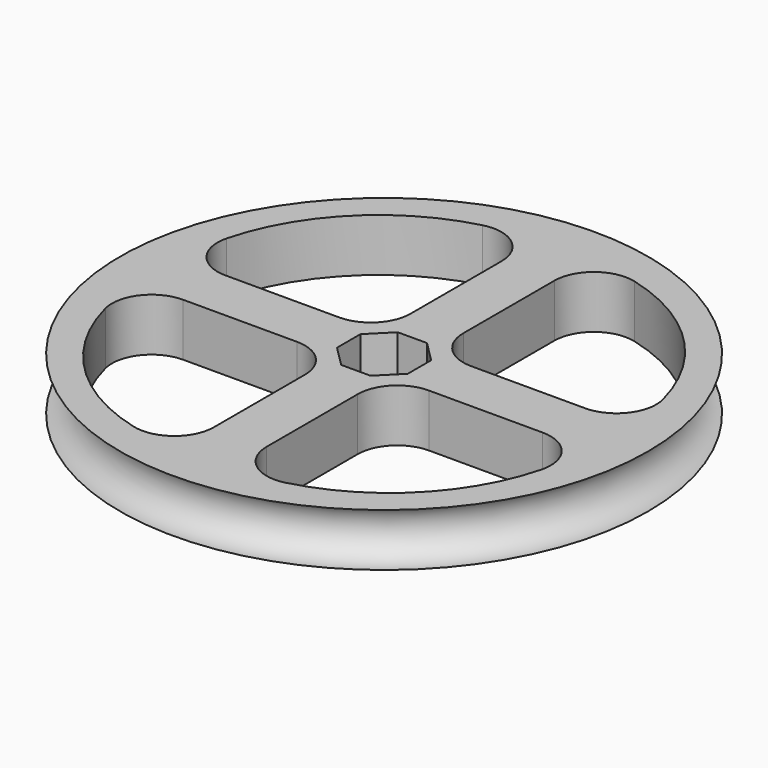
from build123d import *

# Parameters (mm, degrees)
TORUS_R         = 2
CYLINDER_R      = 20
CYLINDER_DEPTH  = 4
POCKET_DEPTH    = 4.001
FILLET_R        = 3
FILLET001_R     = 3
FILLET002_R     = 3
POCKET001_DEPTH = 5


with BuildPart() as torus:
    # Torus → Torus (revolve)
    with BuildSketch(Plane(origin=(0, 0, 2), x_dir=(1, 0, 0), z_dir=(0, -1, 0))):
        with Locations((20, 0)):
            Circle(TORUS_R)
    revolve(axis=Axis((0, 0, 2), (0, 0, 1)))


with BuildPart() as body001:
    # Cylinder → Cylinder (new body)
    with BuildSketch(Plane.XY):
        Circle(CYLINDER_R)
    extrude(amount=CYLINDER_DEPTH)

    # Sketch001 (on DatumPlane) → Pocket (cut, through all)
    with BuildSketch(Plane(origin=(0, 0, 0), x_dir=(1, 0, 0), z_dir=(0, 0, -1))):
        with BuildLine():
            Line((2, 17), (2, 2))
            Line((2, 2), (17, 2))
            ThreePointArc((17, 2), (12.606602, 12.606602), (2, 17))
        make_face()
        with BuildLine():
            Line((-2, 17), (-2, 2))
            Line((-17, 2), (-2, 2))
            ThreePointArc((-2, 17), (-12.606602, 12.606602), (-17, 2))
        make_face()
        with BuildLine():
            Line((2, -2), (17, -2))
            ThreePointArc((2, -17), (12.606602, -12.606602), (17, -2))
            Line((2, -2), (2, -17))
        make_face()
        with BuildLine():
            Line((-2, -2), (-2, -17))
            ThreePointArc((-17, -2), (-12.606602, -12.606602), (-2, -17))
            Line((-17, -2), (-2, -2))
        make_face()
    extrude(amount=-POCKET_DEPTH, mode=Mode.SUBTRACT)

    # Fillet
    fillet_edges = [body001.edges().sort_by_distance(p)[0] for p in [
        (-2, -17, 2),
    ]]
    fillet(fillet_edges, radius=FILLET_R)

    # Fillet001
    fillet001_edges = [body001.edges().sort_by_distance(p)[0] for p in [
        (-17, 2, 2),
        (2, -17, 2),
        (17, -2, 2),
        (-17, -2, 2),
        (-2, 17, 2),
        (2, 17, 2),
        (17, 2, 2),
    ]]
    fillet(fillet001_edges, radius=FILLET001_R)

    # Fillet002
    fillet002_edges = [body001.edges().sort_by_distance(p)[0] for p in [
        (2, -2, 2),
        (2, 2, 2),
        (-2, 2, 2),
        (-2, -2, 2),
    ]]
    fillet(fillet002_edges, radius=FILLET002_R)

    # Cut: cut Torus
    add(torus.part, mode=Mode.SUBTRACT)

    # Sketch (on DatumPlane) → Pocket001 (cut)
    with BuildSketch(Plane(origin=(0, 0, 0), x_dir=(1, 0, 0), z_dir=(0, 0, -1))):
        Polygon((1.109782, -2.679251), (2.679251, -1.109782), (2.679251, 1.109782), (1.109782, 2.679251), (-1.109782, 2.679251), (-2.679251, 1.109782), (-2.679251, -1.109782), (-1.109782, -2.679251), align=None)
    extrude(amount=-POCKET001_DEPTH, mode=Mode.SUBTRACT)


solid = body001.part
